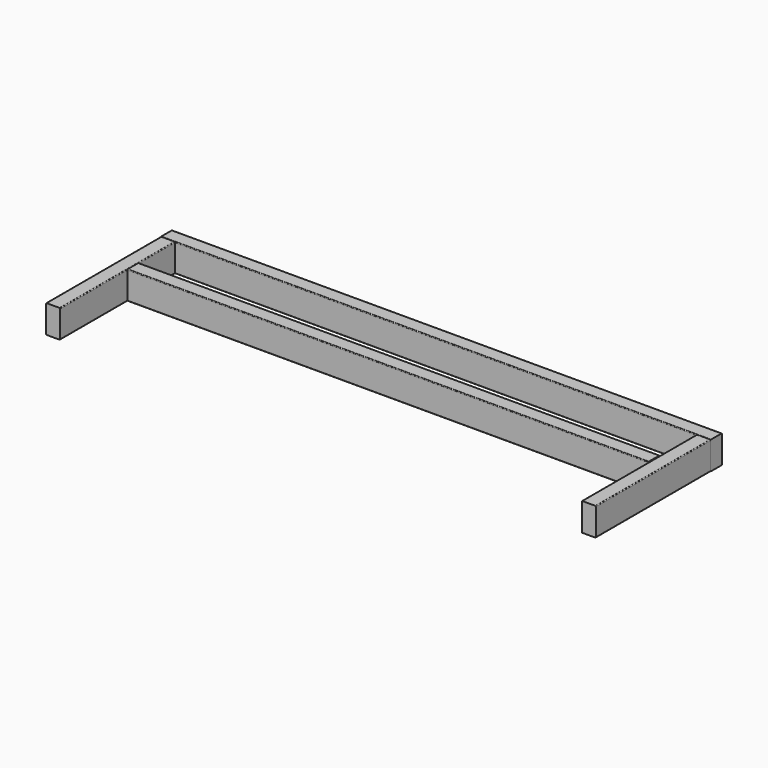
from build123d import *

# Parameters (mm, degrees)
F0_W     = 1993.9
F0_H     = 101.6
F1_DEPTH = 50.8
F2_R     = 2.54
F3_W     = 50.8
F3_H     = 520.7
F4_DEPTH = 50.8
F5_R     = 2.54
F6_W     = 50.8
F6_H     = 520.7
F7_DEPTH = 50.8
F8_W     = 1889.76
F8_H     = 50.8
F9_DEPTH = 50.8
F10_R    = 2.54
F10_2_R  = 2.54


with BuildPart() as f1:
    # F0 (on Front) → F1 (new body)
    with BuildSketch(Plane.XZ):
        Rectangle(F0_W, F0_H)
    extrude(amount=F1_DEPTH)

    # F2
    f2_edges = [f1.edges().sort_by_distance(p)[0] for p in [
        (0, 0, -50.8),
        (0, 0, 50.8),
        (0, -50.8, -50.8),
        (0, -50.8, 50.8),
    ]]
    fillet(f2_edges, radius=F2_R)


with BuildPart() as f4:
    # F3 (on Top) → F4 (new body, symmetric)
    with BuildSketch(Plane.XY):
        with Locations((-971.55, -311.404)):
            Rectangle(F3_W, F3_H)
    extrude(amount=F4_DEPTH, both=True)

    # F5
    f5_edges = [f4.edges().sort_by_distance(p)[0] for p in [
        (-996.95, -311.404, 50.8),
        (-946.15, -311.404, 50.8),
        (-996.95, -311.404, -50.8),
        (-946.15, -311.404, -50.8),
    ]]
    fillet(f5_edges, radius=F5_R)


with BuildPart() as f7:
    # F6 (on Top) → F7 (new body, symmetric)
    with BuildSketch(Plane.XY):
        with Locations((971.55, -311.404)):
            Rectangle(F6_W, F6_H)
    extrude(amount=F7_DEPTH, both=True)

    # F10#2
    f10_2_edges = [f7.edges().sort_by_distance(p)[0] for p in [
        (946.15, -311.404, -50.8),
        (946.15, -311.404, 50.8),
        (996.95, -311.404, 50.8),
        (996.95, -311.404, -50.8),
    ]]
    fillet(f10_2_edges, radius=F10_2_R)


with BuildPart() as f9:
    # F8 (on Top) → F9 (new body, symmetric)
    with BuildSketch(Plane.XY):
        with Locations((-1.016, -241.3)):
            Rectangle(F8_W, F8_H)
    extrude(amount=F9_DEPTH, both=True)

    # F10
    f10_edges = [f9.edges().sort_by_distance(p)[0] for p in [
        (-1.016, -215.9, 50.8),
        (-1.016, -266.7, 50.8),
        (-1.016, -266.7, -50.8),
        (-1.016, -215.9, -50.8),
    ]]
    fillet(f10_edges, radius=F10_R)


solid = Compound([f1.part, f4.part, f7.part, f9.part])
